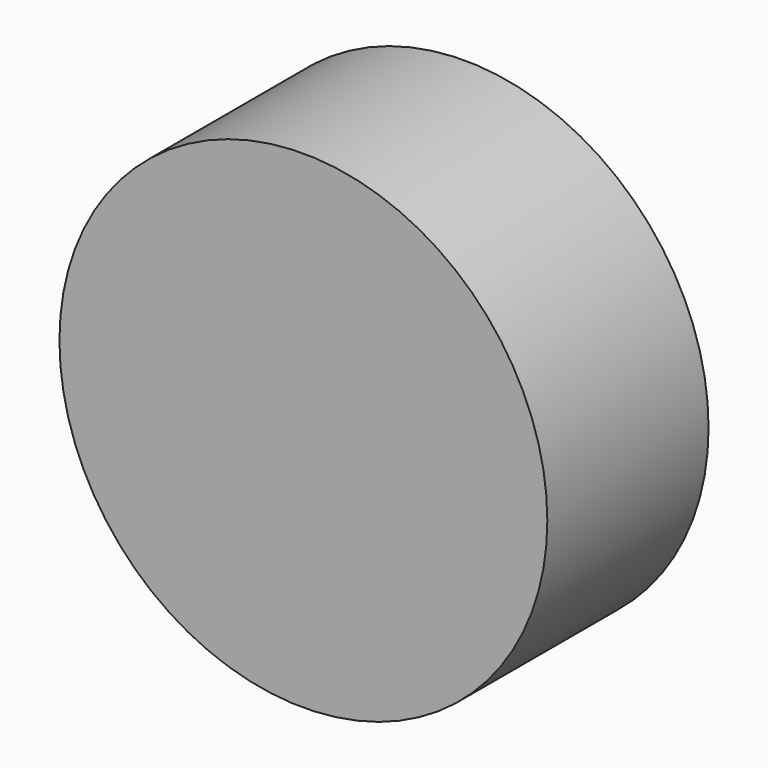
from build123d import *

# Parameters (mm, degrees)
F1_R     = 32.2158925165
F2_DEPTH = 60.706
F0_R     = 73.4772843718


with BuildPart() as f2:
    # F1 (on face) → F2 (new body)
    with BuildSketch(Plane.XZ):
        Circle(F1_R)
    extrude(amount=F2_DEPTH)


with BuildPart() as f2b:
    # F0 (on Front) → F2, piece 2 (new body)
    with BuildSketch(Plane.XZ):
        Circle(F0_R)
    extrude(amount=F2_DEPTH)


solid = Compound([f2.part, f2b.part])
